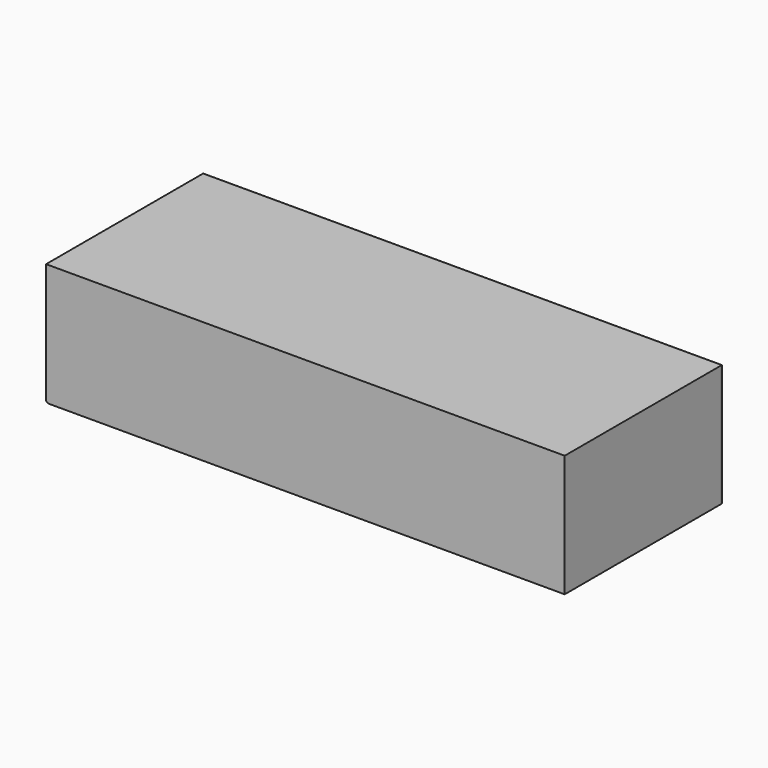
from build123d import *

# Parameters (mm, degrees)
SKETCH001_W  = 170
SKETCH001_H  = 65
PAD_DEPTH    = 40
SKETCH_R     = 9.5
POCKET_DEPTH = 36
FILLET_R     = 1.5
FILLET001_R  = 0.9


with BuildPart() as part:
    # Sketch001 → Pad (new body)
    with BuildSketch(Plane.XY):
        Rectangle(SKETCH001_W, SKETCH001_H)
    extrude(amount=PAD_DEPTH)

    # Sketch → Pocket (cut)
    with BuildSketch(Plane.XY):
        with Locations((-73.5, 21)):
            Circle(SKETCH_R)
        with Locations((-52.5, 21)):
            Circle(SKETCH_R)
        with Locations((-31.5, 21)):
            Circle(SKETCH_R)
        with Locations((-10.5, 21)):
            Circle(SKETCH_R)
        with Locations((-73.5, 0)):
            Circle(SKETCH_R)
        with Locations((-52.5, 0)):
            Circle(SKETCH_R)
        with Locations((-31.5, 0)):
            Circle(SKETCH_R)
        with Locations((-10.5, 0)):
            Circle(SKETCH_R)
        with Locations((-73.5, -21)):
            Circle(SKETCH_R)
        with Locations((-52.5, -21)):
            Circle(SKETCH_R)
        with Locations((-31.5, -21)):
            Circle(SKETCH_R)
        with Locations((-10.5, -21)):
            Circle(SKETCH_R)
        with Locations((10.5, 21)):
            Circle(SKETCH_R)
        with Locations((31.5, 21)):
            Circle(SKETCH_R)
        with Locations((31.5, 0)):
            Circle(SKETCH_R)
        with Locations((10.5, 0)):
            Circle(SKETCH_R)
        with Locations((10.5, -21)):
            Circle(SKETCH_R)
        with Locations((31.5, -21)):
            Circle(SKETCH_R)
        with Locations((52.5, 21)):
            Circle(SKETCH_R)
        with Locations((73.5, 21)):
            Circle(SKETCH_R)
        with Locations((52.5, 0)):
            Circle(SKETCH_R)
        with Locations((52.5, -21)):
            Circle(SKETCH_R)
        with Locations((73.5, -21)):
            Circle(SKETCH_R)
        with Locations((73.5, 0)):
            Circle(SKETCH_R)
    extrude(amount=POCKET_DEPTH, mode=Mode.SUBTRACT)

    # Fillet
    fillet_edges = [part.edges().sort_by_distance(p)[0] for p in [
        (64, 21, 36),
        (43, -21, 36),
        (64, -21, 36),
        (64, 0, 36),
        (43, 0, 36),
        (43, 21, 36),
        (22, 0, 36),
        (22, 21, 36),
        (1, 0, 36),
        (22, -21, 36),
        (-20, 0, 36),
        (-20, 21, 36),
        (-20, -21, 36),
        (1, -21, 36),
        (1, 21, 36),
        (-41, -21, 36),
        (-41, 0, 36),
        (-41, 21, 36),
        (-62, 21, 36),
        (-83, 21, 36),
        (-62, 0, 36),
        (-83, 0, 36),
        (-62, -21, 36),
        (-83, -21, 36),
    ]]
    fillet(fillet_edges, radius=FILLET_R)

    # Fillet001
    fillet001_edges = [part.edges().sort_by_distance(p)[0] for p in [
        (1, -21, 0),
        (43, -21, 0),
        (22, -21, 0),
        (64, -21, 0),
        (-62, -21, 0),
        (-83, 0, 0),
        (-41, -21, 0),
        (-41, 0, 0),
        (-62, 0, 0),
        (-20, -21, 0),
        (-20, 0, 0),
        (-41, 21, 0),
        (22, 0, 0),
        (1, 0, 0),
        (-62, 21, 0),
        (-20, 21, 0),
        (-83, 21, 0),
        (64, 0, 0),
        (43, 0, 0),
        (1, 21, 0),
        (-85, 32.5, 20),
        (43, 21, 0),
        (64, 21, 0),
        (85, 32.5, 20),
        (0, 32.5, 40),
        (22, 21, 0),
        (-85, 0, 0),
        (-83, -21, 0),
    ]]
    fillet(fillet001_edges, radius=FILLET001_R)


solid = part.part
